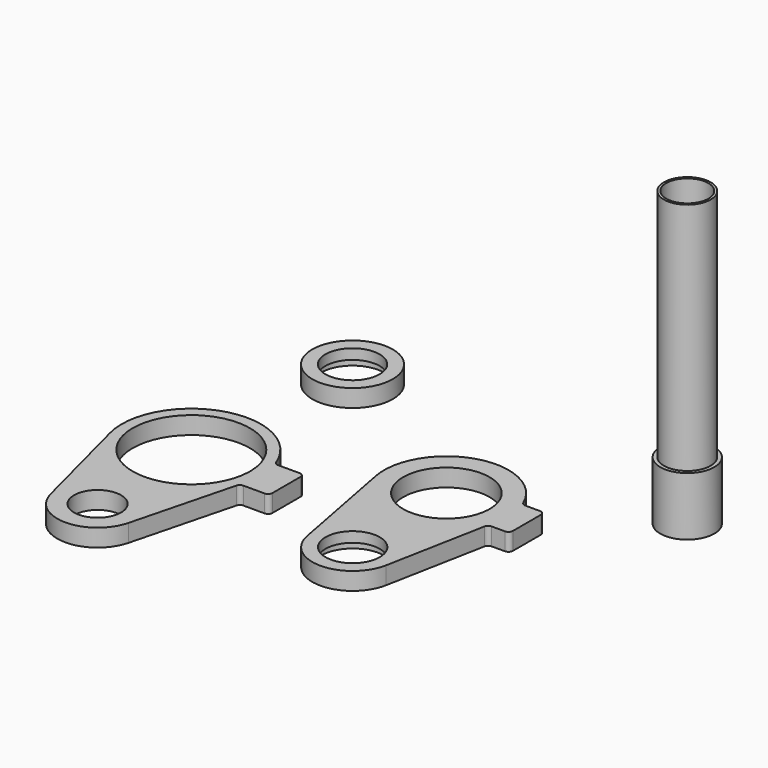
from build123d import *

# Parameters (mm, degrees)
F0_R     = 21.5
F0_R_2   = 18.5
F1_DEPTH = 12
F0_R_3   = 16.05
F0_R_4   = 27.5
F0_R_5   = 16
F2_DEPTH = 200
F3_DEPTH = 40
F4_DEPTH = 5
F5_DEPTH = 5
F6_T     = -1.6


with BuildPart() as f1:
    # F0 (on Top) → F1 (new body)
    with BuildSketch(Plane.XY):
        with BuildLine():
            ThreePointArc((41.7881562168, 15), (40.1389805986, 15.4939633322), (39.0328931695, 16.8131868132))
            ThreePointArc((39.0328931695, 16.8131868132), (-12.4650177872, 40.6309405695), (-41.7462456209, -7.96875))
            Line((-41.7462456209, -7.96875), (-27.0122765782, -85.15625))
            ThreePointArc((-27.0122765782, -85.15625), (0, -107.5), (27.0122765782, -85.15625))
            Line((27.0122765782, -85.15625), (39.938799216, -17.4375))
            ThreePointArc((39.938799216, -17.4375), (40.973460707, -15.6883447489), (42.8855930246, -15))
            Line((42.8855930246, -15), (52, -15))
            ThreePointArc((52, -15), (54.1213203436, -14.1213203436), (55, -12))
            Line((55, -12), (55, -1.5))
            Line((55, -1.5), (55, 1.5))
            Line((55, 1.5), (55, 12))
            ThreePointArc((55, 12), (54.1213203436, 14.1213203436), (52, 15))
            Line((52, 15), (41.7881562168, 15))
        make_face()
        with Locations((0, -80)):
            Circle(F0_R, mode=Mode.SUBTRACT)
        with BuildLine():
            ThreePointArc((29.4618397253, -1.5), (-29.5, 0), (29.4618397253, 1.5))
            ThreePointArc((29.4618397253, 1.5), (29.5, 0), (29.4618397253, -1.5))
        make_face(mode=Mode.SUBTRACT)
        with Locations((0, -80)):
            Circle(F0_R)
        with Locations((0, -80)):
            Circle(F0_R_2, mode=Mode.SUBTRACT)
    extrude(amount=F1_DEPTH)

    # F0 (on Top) → F4 (cut)
    with BuildSketch(Plane.XY):
        with Locations((0, -80)):
            Circle(F0_R)
        with Locations((0, -80)):
            Circle(F0_R_2, mode=Mode.SUBTRACT)
    extrude(amount=F4_DEPTH, mode=Mode.SUBTRACT)


with BuildPart() as f1b:
    # F0 (on Top) → F1, piece 2 (new body)
    with BuildSketch(Plane.XY):
        with BuildLine():
            ThreePointArc((-90.2527075587, -30.8974491381), (-91.9544829857, -30.3680685738), (-93.0556671888, -28.9667560688))
            ThreePointArc((-93.0556671888, -28.9667560688), (-151.8612281468, -0.640860753), (-183.4275385683, -57.7724491381))
            Line((-183.4275385683, -57.7724491381), (-164.0626218372, -132.7724491381))
            ThreePointArc((-164.0626218372, -132.7724491381), (-137.4358613321, -153.3974491381), (-110.8091008269, -132.7724491381))
            Line((-110.8091008269, -132.7724491381), (-92.8320031282, -63.1474491381))
            ThreePointArc((-92.8320031282, -63.1474491381), (-91.7643829257, -61.525740893), (-89.9272656186, -60.8974491381))
            Line((-89.9272656186, -60.8974491381), (-75.4358613321, -60.8974491381))
            ThreePointArc((-75.4358613321, -60.8974491381), (-73.3145409885, -60.0187694817), (-72.4358613321, -57.8974491381))
            Line((-72.4358613321, -57.8974491381), (-72.4358613321, -47.3974491381))
            Line((-72.4358613321, -47.3974491381), (-72.4358613321, -44.3974491381))
            Line((-72.4358613321, -44.3974491381), (-72.4358613321, -33.8974491381))
            ThreePointArc((-72.4358613321, -33.8974491381), (-73.3145409885, -31.7761287946), (-75.4358613321, -30.8974491381))
            Line((-75.4358613321, -30.8974491381), (-90.2527075587, -30.8974491381))
        make_face()
        with Locations((-137.4358613321, -125.8974491381)):
            Circle(F0_R_3, mode=Mode.SUBTRACT)
        with BuildLine():
            ThreePointArc((-97.4876040774, -47.9313474432), (-177.4358613321, -45.8974491381), (-97.4876040774, -43.8635508331))
            ThreePointArc((-97.4876040774, -43.8635508331), (-97.4358613321, -45.8974491381), (-97.4876040774, -47.9313474432))
        make_face(mode=Mode.SUBTRACT)
    extrude(amount=F1_DEPTH)


with BuildPart() as f1c:
    # F0 (on Top) → F1, piece 3 (new body)
    with BuildSketch(Plane.XY):
        with Locations((-131.978303194, 84.8606303334)):
            Circle(F0_R_4)
        with Locations((-131.978303194, 84.8606303334)):
            Circle(F0_R, mode=Mode.SUBTRACT)
        with Locations((-131.978303194, 84.8606303334)):
            Circle(F0_R)
        with Locations((-131.978303194, 84.8606303334)):
            Circle(F0_R_2, mode=Mode.SUBTRACT)
    extrude(amount=F1_DEPTH)

    # F0 (on Top) → F5 (cut)
    with BuildSketch(Plane.XY):
        with Locations((-131.978303194, 84.8606303334)):
            Circle(F0_R)
        with Locations((-131.978303194, 84.8606303334)):
            Circle(F0_R_2, mode=Mode.SUBTRACT)
    extrude(amount=F5_DEPTH, mode=Mode.SUBTRACT)


with BuildPart() as f2:
    # F0 (on Top) → F2 (new body)
    with BuildSketch(Plane.XY):
        with Locations((107.9458966851, 70.6521868706)):
            Circle(F0_R_5)
    extrude(amount=F2_DEPTH)

    # F0 (on Top) → F3 (join)
    with BuildSketch(Plane.XY):
        with Locations((107.9458966851, 70.6521868706)):
            Circle(F0_R_2)
        with Locations((107.9458966851, 70.6521868706)):
            Circle(F0_R_5, mode=Mode.SUBTRACT)
    extrude(amount=F3_DEPTH)

    # F6
    f6_openings = [f2.faces().sort_by_distance(p)[0] for p in [
        (107.945897, 70.652187, 200),
    ]]
    offset(amount=F6_T, openings=f6_openings, kind=Kind.INTERSECTION)


solid = Compound([f1.part, f1b.part, f1c.part, f2.part])
